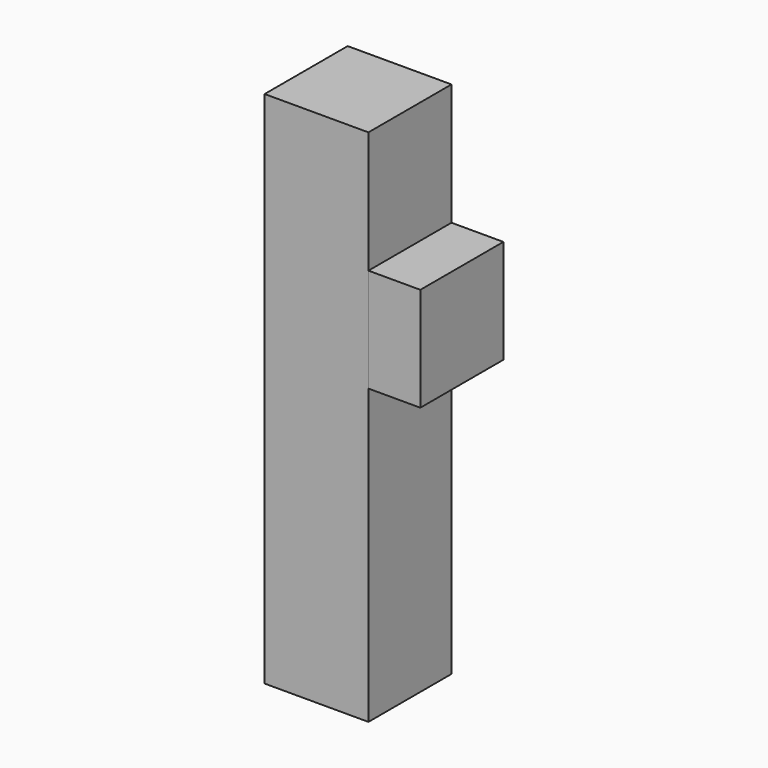
from build123d import *

# Parameters (mm, degrees)
F0_W     = 20
F0_H     = 20
F1_DEPTH = 100
F2_W     = 20
F2_H     = 20
F3_DEPTH = 10


with BuildPart() as f1:
    # F0 (on Top) → F1 (new body)
    with BuildSketch(Plane.XY):
        Rectangle(F0_W, F0_H)
    extrude(amount=F1_DEPTH)


with BuildPart() as f3:
    # F2 (on face) → F3 (new body)
    with BuildSketch(Plane.YZ.offset(10)):
        with Locations((0, 66.544397)):
            Rectangle(F2_W, F2_H)
    extrude(amount=F3_DEPTH)


solid = Compound([f1.part, f3.part])
